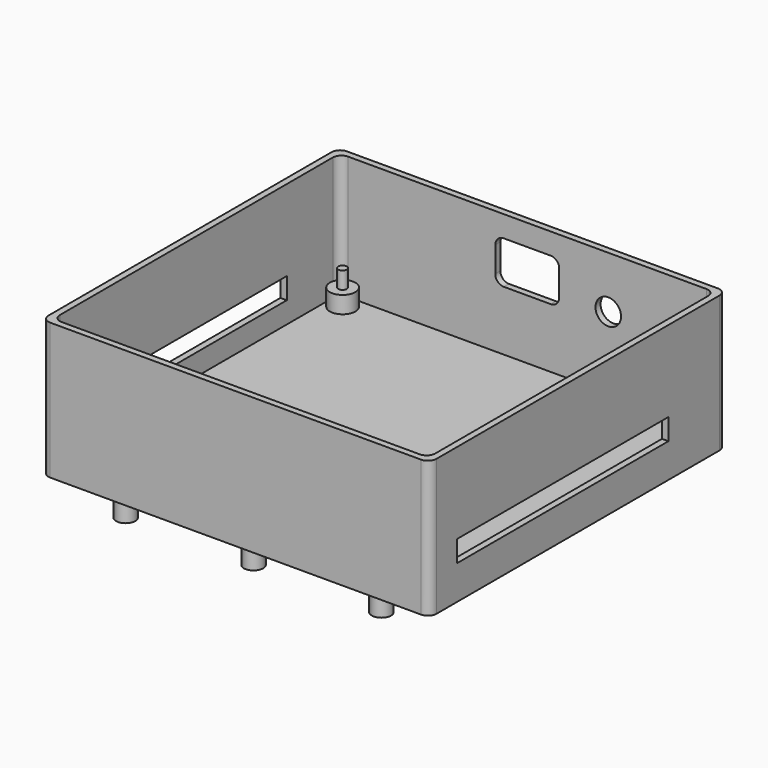
from build123d import *

# Parameters (mm, degrees)
SKETCH007_R      = 2.25
EXTRUDE007_DEPTH = 6
SKETCH006_R      = 3
SKETCH006_W      = 15
SKETCH006_H      = 10
EXTRUDE006_DEPTH = 2
SKETCH005_W      = 62
SKETCH005_H      = 5
EXTRUDE005_DEPTH = 2
SKETCH004_W      = 62
SKETCH004_H      = 5
EXTRUDE004_DEPTH = 2
SKETCH003_R      = 1
EXTRUDE003_DEPTH = 4
SKETCH002_R      = 3
EXTRUDE002_DEPTH = 4
SKETCH001_W      = 88
SKETCH001_H      = 84
EXTRUDE001_DEPTH = 29
SKETCH_W         = 91
SKETCH_H         = 87
EXTRUDE_DEPTH    = 29
BOX_W            = 91
BOX_H            = 87
BOX_DEPTH        = 3
FILLET_R         = 2
FILLET001_R      = 2
FILLET002_R      = 2
FILLET003_R      = 2
FILLET004_R      = 2
FILLET005_R      = 2
FILLET006_R      = 2
FILLET007_R      = 2
FILLET008_R      = 2
FILLET009_R      = 2
FILLET010_R      = 2
FILLET011_R      = 2


with BuildPart() as extrude007:
    # Sketch007 (on Face52 of Fillet011) → Extrude007 (new body)
    with BuildSketch(Plane(origin=(0, 0, 0), x_dir=(1, 0, 0), z_dir=(0, 0, -1))):
        with Locations((45.5, -5.25)):
            Circle(SKETCH007_R)
        with Locations((75.5, -5.25)):
            Circle(SKETCH007_R)
        with Locations((15.5, -5.25)):
            Circle(SKETCH007_R)
        with Locations((15.5, -35.25)):
            Circle(SKETCH007_R)
        with Locations((45.5, -35.25)):
            Circle(SKETCH007_R)
        with Locations((75.5, -35.25)):
            Circle(SKETCH007_R)
        with Locations((15.5, -65.25)):
            Circle(SKETCH007_R)
        with Locations((45.5, -65.25)):
            Circle(SKETCH007_R)
        with Locations((75.5, -65.25)):
            Circle(SKETCH007_R)
    extrude(amount=EXTRUDE007_DEPTH)


with BuildPart() as extrude006:
    # Sketch006 (on Face13 of Cut002) → Extrude006 (new body)
    with BuildSketch(Plane(origin=(0, 87, 0), x_dir=(-1, 0, 0), z_dir=(0, 1, 0))):
        with Locations((-64.5, 19.802082)):
            Circle(SKETCH006_R)
        with Locations((-45.5, 22)):
            Rectangle(SKETCH006_W, SKETCH006_H)
    extrude(amount=-EXTRUDE006_DEPTH)


with BuildPart() as extrude005:
    # Sketch005 (on Face17 of Cut001) → Extrude005 (new body)
    with BuildSketch(Plane(origin=(0, 0, 0), x_dir=(0, -1, 0), z_dir=(-1, 0, 0))):
        with Locations((-39, 10.5)):
            Rectangle(SKETCH005_W, SKETCH005_H)
    extrude(amount=-EXTRUDE005_DEPTH)


with BuildPart() as extrude004:
    # Sketch004 (on Face10 of Fusion002) → Extrude004 (new body)
    with BuildSketch(Plane.YZ.offset(91)):
        with Locations((39, 10.5)):
            Rectangle(SKETCH004_W, SKETCH004_H)
    extrude(amount=-EXTRUDE004_DEPTH)


with BuildPart() as extrude003:
    # Sketch003 (on Face34 of Fusion001) → Extrude003 (new body)
    with BuildSketch(Plane.XY.offset(7)):
        with Locations((5.302703, 5.215435)):
            Circle(SKETCH003_R)
        with Locations((85.638989, 5.056605)):
            Circle(SKETCH003_R)
        with Locations((85.765417, 81.797994)):
            Circle(SKETCH003_R)
        with Locations((5.093359, 81.86968)):
            Circle(SKETCH003_R)
    extrude(amount=EXTRUDE003_DEPTH)


with BuildPart() as extrude002:
    # Sketch002 (on Face18 of Fillet007) → Extrude002 (new body)
    with BuildSketch(Plane.XY.offset(3)):
        with Locations((5.093359, 81.86968)):
            Circle(SKETCH002_R)
        with Locations((85.80056, 81.783242)):
            Circle(SKETCH002_R)
        with Locations((5.279273, 5.214621)):
            Circle(SKETCH002_R)
        with Locations((85.631504, 5.092482)):
            Circle(SKETCH002_R)
    extrude(amount=EXTRUDE002_DEPTH)


with BuildPart() as extrude001:
    # Sketch001 (on Face6 of Box) → Extrude001 (new body)
    with BuildSketch(Plane.XY.offset(3)):
        with Locations((45.5, 43.5)):
            Rectangle(SKETCH001_W, SKETCH001_H)
    extrude(amount=EXTRUDE001_DEPTH)


with BuildPart() as cut:
    # Sketch (on Face6 of Box) → Extrude (new body)
    with BuildSketch(Plane.XY.offset(3)):
        with Locations((45.5, 43.5)):
            Rectangle(SKETCH_W, SKETCH_H)
    extrude(amount=EXTRUDE_DEPTH)

    # Cut: cut Extrude001
    add(extrude001.part, mode=Mode.SUBTRACT)


with BuildPart() as esp_case_bottom:
    # Box → Box (new body)
    with BuildSketch(Plane.XY):
        with Locations((45.5, 43.5)):
            Rectangle(BOX_W, BOX_H)
    extrude(amount=BOX_DEPTH)

    # Fusion: union Cut
    add(cut.part)

    # Fillet
    fillet_edges = [esp_case_bottom.edges().sort_by_distance(p)[0] for p in [
        (0, 87, 1.5),
        (0, 87, 17.5),
    ]]
    fillet(fillet_edges, radius=FILLET_R)

    # Fillet001
    fillet001_edges = [esp_case_bottom.edges().sort_by_distance(p)[0] for p in [
        (1.5, 85.5, 17.5),
    ]]
    fillet(fillet001_edges, radius=FILLET001_R)

    # Fillet002
    fillet002_edges = [esp_case_bottom.edges().sort_by_distance(p)[0] for p in [
        (0, 0, 17.5),
    ]]
    fillet(fillet002_edges, radius=FILLET002_R)

    # Fillet003
    fillet003_edges = [esp_case_bottom.edges().sort_by_distance(p)[0] for p in [
        (91, 0, 17.5),
    ]]
    fillet(fillet003_edges, radius=FILLET003_R)

    # Fillet004
    fillet004_edges = [esp_case_bottom.edges().sort_by_distance(p)[0] for p in [
        (91, 87, 17.5),
    ]]
    fillet(fillet004_edges, radius=FILLET004_R)

    # Fillet005
    fillet005_edges = [esp_case_bottom.edges().sort_by_distance(p)[0] for p in [
        (89.5, 85.5, 17.5),
    ]]
    fillet(fillet005_edges, radius=FILLET005_R)

    # Fillet006
    fillet006_edges = [esp_case_bottom.edges().sort_by_distance(p)[0] for p in [
        (89.5, 1.5, 17.5),
    ]]
    fillet(fillet006_edges, radius=FILLET006_R)

    # Fillet007
    fillet007_edges = [esp_case_bottom.edges().sort_by_distance(p)[0] for p in [
        (1.5, 1.5, 17.5),
    ]]
    fillet(fillet007_edges, radius=FILLET007_R)

    # Fusion001: union Extrude002
    add(extrude002.part)

    # Fusion002: union Extrude003
    add(extrude003.part)

    # Cut001: cut Extrude004
    add(extrude004.part, mode=Mode.SUBTRACT)

    # Cut002: cut Extrude005
    add(extrude005.part, mode=Mode.SUBTRACT)

    # Cut003: cut Extrude006
    add(extrude006.part, mode=Mode.SUBTRACT)

    # Fillet008
    fillet008_edges = [esp_case_bottom.edges().sort_by_distance(p)[0] for p in [
        (38, 86.25, 17),
    ]]
    fillet(fillet008_edges, radius=FILLET008_R)

    # Fillet009
    fillet009_edges = [esp_case_bottom.edges().sort_by_distance(p)[0] for p in [
        (53, 86.25, 27),
    ]]
    fillet(fillet009_edges, radius=FILLET009_R)

    # Fillet010
    fillet010_edges = [esp_case_bottom.edges().sort_by_distance(p)[0] for p in [
        (53, 86.25, 17),
    ]]
    fillet(fillet010_edges, radius=FILLET010_R)

    # Fillet011
    fillet011_edges = [esp_case_bottom.edges().sort_by_distance(p)[0] for p in [
        (38, 86.25, 27),
    ]]
    fillet(fillet011_edges, radius=FILLET011_R)

    # Fusion003: union Extrude007
    add(extrude007.part)


solid = esp_case_bottom.part
